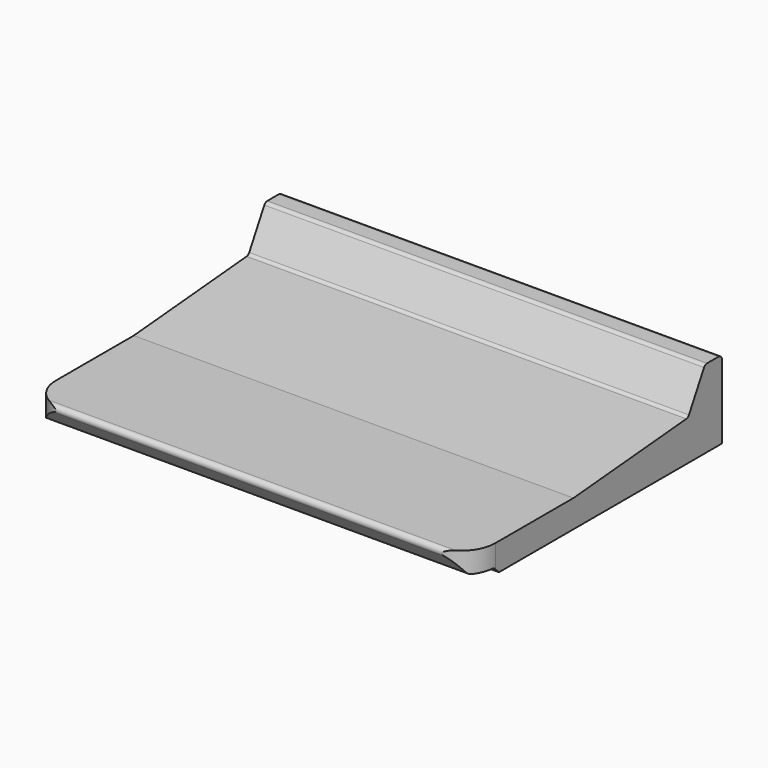
from build123d import *

# Parameters (mm, degrees)
F1_DEPTH = 520
F3_DEPTH = 65.001


with BuildPart() as f1:
    # F0 (on Right) → F1 (new body, symmetric)
    with BuildSketch(Plane.YZ):
        with BuildLine():
            Line((-281, -92.5), (378, -92.5))
            Line((378, -92.5), (378, 82.5))
            ThreePointArc((378, 82.5), (375.071068, 89.571068), (368, 92.5))
            Line((368, 92.5), (333.894845, 92.5))
            ThreePointArc((333.894845, 92.5), (328.816651, 91.114635), (325.145487, 87.342389))
            Line((325.145487, 87.342389), (280.57677, 6.814435))
            ThreePointArc((280.57677, 6.814435), (277.276538, 3.271895), (272.69897, 1.694877))
            Line((272.69897, 1.694877), (-61, -27.5))
            Line((-61, -27.5), (-360.418347, -27.5))
            ThreePointArc((-360.418347, -27.5), (-369.224147, -32.761024), (-368.764441, -43.008422))
            Line((-368.764441, -43.008422), (-348.964441, -73.008422))
            ThreePointArc((-348.964441, -73.008422), (-345.357323, -76.3058), (-340.618347, -77.5))
            Line((-340.618347, -77.5), (-300.142136, -77.5))
            ThreePointArc((-300.142136, -77.5), (-296.315301, -78.261205), (-293.071068, -80.428932))
            Line((-293.071068, -80.428932), (-281, -92.5))
        make_face()
    extrude(amount=F1_DEPTH, both=True)

    # F2 (on face) → F3 (cut, through all)
    with BuildSketch(Plane.XY.offset(-27.5)):
        with BuildLine():
            ThreePointArc((520, -292), (496.568542, -348.568542), (440, -372))
            Line((440, -372), (420, -372))
            Line((420, -372), (415.918393, -433.798668))
            Line((415.918393, -433.798668), (574.893101, -433.798668))
            Line((574.893101, -433.798668), (520, -292))
        make_face()
        with BuildLine():
            Line((-574.893101, -433.798668), (-415.918393, -433.798668))
            Line((-415.918393, -433.798668), (-420, -372))
            Line((-420, -372), (-440, -372))
            ThreePointArc((-440, -372), (-496.568542, -348.568542), (-520, -292))
            Line((-520, -292), (-574.893101, -433.798668))
        make_face()
    extrude(amount=-F3_DEPTH, mode=Mode.SUBTRACT)


solid = f1.part
